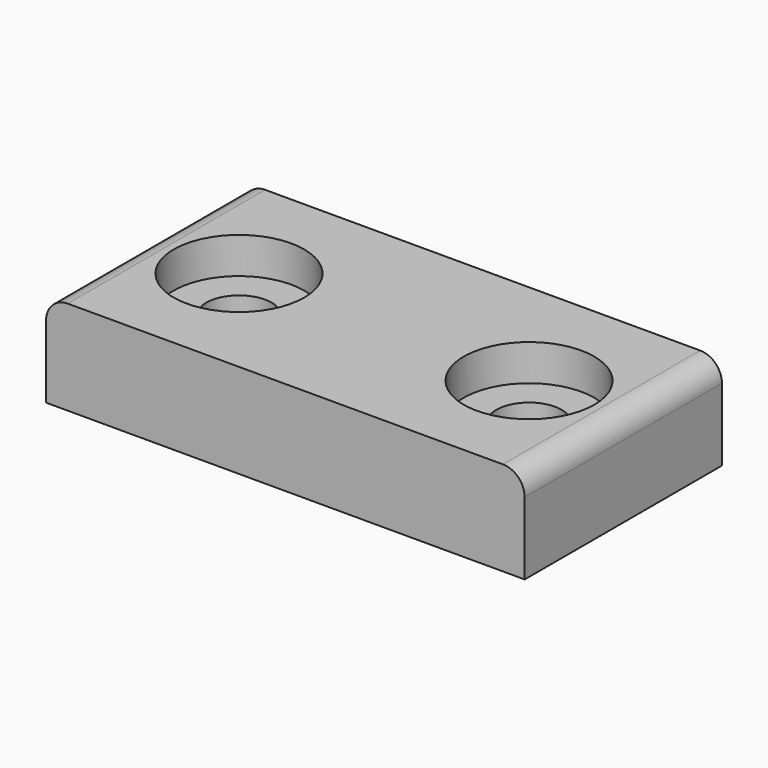
from build123d import *

# Parameters (mm, degrees)
SKETCH_W     = 33
SKETCH_H     = 17
SKETCH_R     = 2.25
PAD_DEPTH    = 6.5
SKETCH001_R  = 4.5
POCKET_DEPTH = 2.5
FILLET_R     = 1.5


with BuildPart() as part:
    # Sketch → Pad (new body)
    with BuildSketch(Plane.XY):
        with Locations((16.5, 8.5)):
            Rectangle(SKETCH_W, SKETCH_H)
        with Locations((6.5, 8.5)):
            Circle(SKETCH_R, mode=Mode.SUBTRACT)
        with Locations((26.5, 8.5)):
            Circle(SKETCH_R, mode=Mode.SUBTRACT)
    extrude(amount=PAD_DEPTH)

    # Sketch001 (on Face8 of Pad) → Pocket (cut)
    with BuildSketch(Plane.XY.offset(6.5)):
        with Locations((6.5, 8.5)):
            Circle(SKETCH001_R)
        with Locations((26.5, 8.5)):
            Circle(SKETCH001_R)
    extrude(amount=-POCKET_DEPTH, mode=Mode.SUBTRACT)

    # Fillet
    fillet_edges = [part.edges().sort_by_distance(p)[0] for p in [
        (33, 8.5, 6.5),
        (0, 8.5, 6.5),
    ]]
    fillet(fillet_edges, radius=FILLET_R)


solid = part.part
